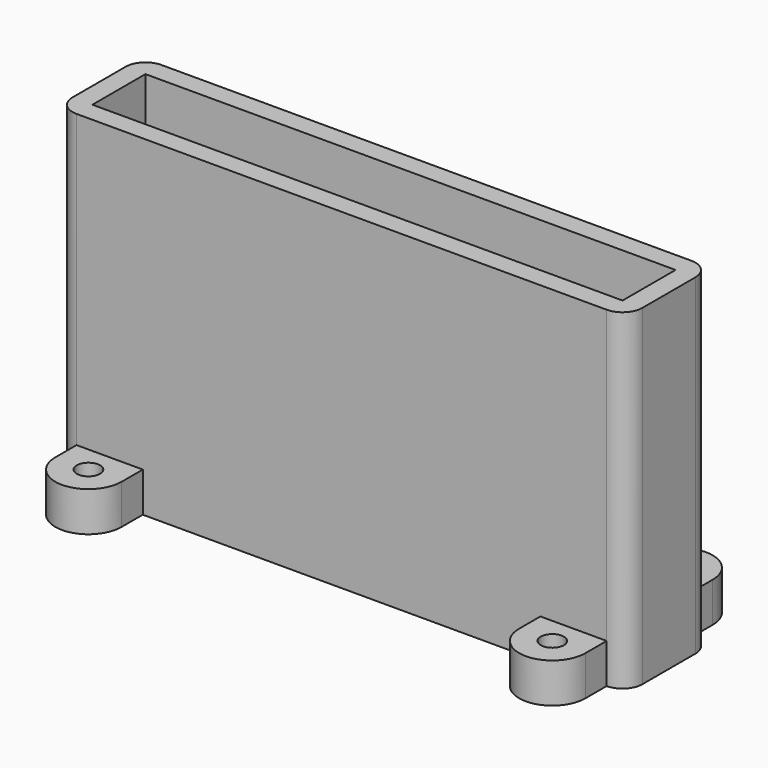
from build123d import *

# Parameters (mm, degrees)
F0_W     = 80
F0_H     = 10
F1_DEPTH = 50
F2_W     = 80
F2_H     = 10
F3_DEPTH = 5
F4_DEPTH = 6


with BuildPart() as f1:
    # F0 (on Top) → F1 (new body)
    with BuildSketch(Plane.XY):
        with BuildLine():
            ThreePointArc((43, 5), (42.12132, 7.12132), (40, 8))
            Line((40, 8), (30, 8))
            Line((30, 8), (-30, 8))
            Line((-30, 8), (-40, 8))
            ThreePointArc((-40, 8), (-42.12132, 7.12132), (-43, 5))
            Line((-43, 5), (-43, -5))
            ThreePointArc((-43, -5), (-42.12132, -7.12132), (-40, -8))
            Line((-40, -8), (-30, -8))
            Line((-30, -8), (30, -8))
            Line((30, -8), (40, -8))
            ThreePointArc((40, -8), (42.12132, -7.12132), (43, -5))
            Line((43, -5), (43, 5))
        make_face()
        Rectangle(F0_W, F0_H, mode=Mode.SUBTRACT)
    extrude(amount=F1_DEPTH)

    # F2 (on Top) → F3 (join)
    with BuildSketch(Plane.XY):
        Rectangle(F2_W, F2_H)
    extrude(amount=F3_DEPTH)

    # F0 (on Top) → F4 (join)
    with BuildSketch(Plane.XY):
        with BuildLine():
            ThreePointArc((43, 5), (42.12132, 7.12132), (40, 8))
            Line((40, 8), (30, 8))
            Line((30, 8), (-30, 8))
            Line((-30, 8), (-40, 8))
            ThreePointArc((-40, 8), (-42.12132, 7.12132), (-43, 5))
            Line((-43, 5), (-43, -5))
            ThreePointArc((-43, -5), (-42.12132, -7.12132), (-40, -8))
            Line((-40, -8), (-30, -8))
            Line((-30, -8), (30, -8))
            Line((30, -8), (40, -8))
            ThreePointArc((40, -8), (42.12132, -7.12132), (43, -5))
            Line((43, -5), (43, 5))
        make_face()
        Rectangle(F0_W, F0_H, mode=Mode.SUBTRACT)
        with BuildLine():
            Line((30, 8), (40, 8))
            Line((40, 8), (40, 12))
            Line((40, 12), (36.75, 12))
            ThreePointArc((36.75, 12), (35, 10.25), (33.25, 12))
            Line((33.25, 12), (30, 12))
            Line((30, 12), (30, 8))
        make_face()
        with BuildLine():
            Line((36.75, 12), (40, 12))
            ThreePointArc((40, 12), (35, 17), (30, 12))
            Line((30, 12), (33.25, 12))
            ThreePointArc((33.25, 12), (35, 13.75), (36.75, 12))
        make_face()
        with BuildLine():
            Line((-40, 8), (-30, 8))
            Line((-30, 8), (-30, 12))
            Line((-30, 12), (-33.25, 12))
            ThreePointArc((-33.25, 12), (-35, 10.25), (-36.75, 12))
            Line((-36.75, 12), (-40, 12))
            Line((-40, 12), (-40, 8))
        make_face()
        with BuildLine():
            Line((-33.25, 12), (-30, 12))
            ThreePointArc((-30, 12), (-35, 17), (-40, 12))
            Line((-40, 12), (-36.75, 12))
            ThreePointArc((-36.75, 12), (-35, 13.75), (-33.25, 12))
        make_face()
        with BuildLine():
            Line((40, -12), (40, -8))
            Line((40, -8), (30, -8))
            Line((30, -8), (30, -12))
            Line((30, -12), (33.25, -12))
            ThreePointArc((33.25, -12), (35, -10.25), (36.75, -12))
            Line((36.75, -12), (40, -12))
        make_face()
        with BuildLine():
            ThreePointArc((30, -12), (35, -17), (40, -12))
            Line((40, -12), (36.75, -12))
            ThreePointArc((36.75, -12), (35, -13.75), (33.25, -12))
            Line((33.25, -12), (30, -12))
        make_face()
        with BuildLine():
            Line((-30, -12), (-30, -8))
            Line((-30, -8), (-40, -8))
            Line((-40, -8), (-40, -12))
            Line((-40, -12), (-36.75, -12))
            ThreePointArc((-36.75, -12), (-35, -10.25), (-33.25, -12))
            Line((-33.25, -12), (-30, -12))
        make_face()
        with BuildLine():
            ThreePointArc((-40, -12), (-35, -17), (-30, -12))
            Line((-30, -12), (-33.25, -12))
            ThreePointArc((-33.25, -12), (-35, -13.75), (-36.75, -12))
            Line((-36.75, -12), (-40, -12))
        make_face()
    extrude(amount=F4_DEPTH)


solid = f1.part
